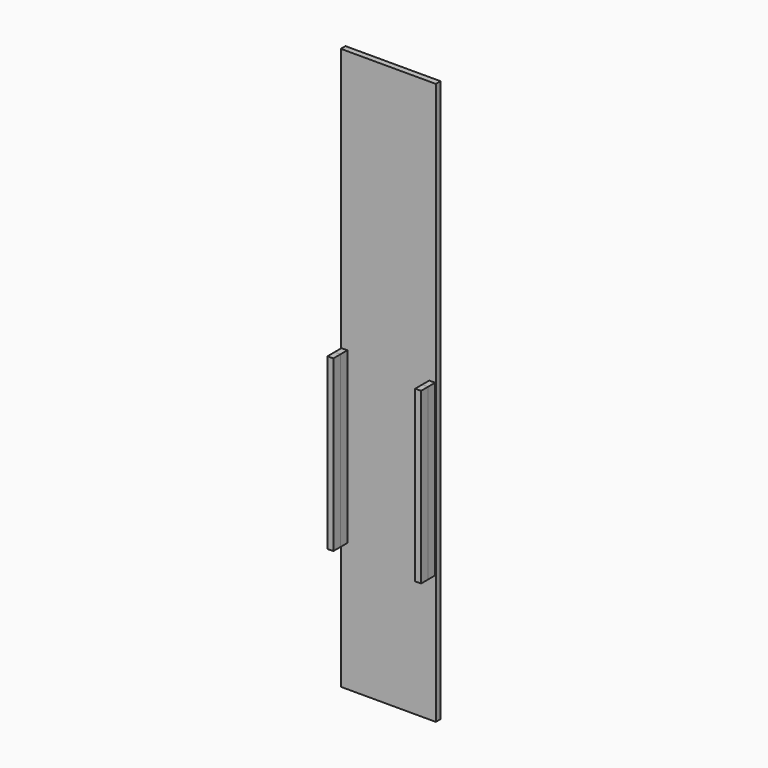
from build123d import *

# Parameters (mm, degrees)
F0_W      = 412.75
F0_H      = 2438.4
F1_DEPTH  = 25.4
F3_DEPTH  = 76.2
F4_W      = 406.4
F4_H      = 584.2
F5_DEPTH  = 38.1
F7_W      = 25.4
F7_H      = 736.6
F8_DEPTH  = 38.1
F9_W      = 25.4
F9_H      = 736.6
F10_DEPTH = 38.1


with BuildPart() as f1:
    # F0 (on Front) → F1 (new body)
    with BuildSketch(Plane.XZ):
        with Locations((206.375, 1219.2)):
            Rectangle(F0_W, F0_H)
    extrude(amount=F1_DEPTH)


with BuildPart() as f3:
    # F2 (on face) → F3 (new body)
    with BuildSketch(Plane.XZ.offset(25.4)):
        Polygon((409.575, 863.6), (3.175, 863.6), (3.175, 127), (28.575, 127), (28.575, 800.1), (384.175, 800.1), (384.175, 127), (409.575, 127), align=None)
    extrude(amount=F3_DEPTH)


with BuildPart() as f5:
    # F4 (on face) → F5 (new body)
    with BuildSketch(Plane.XZ.offset(25.4)):
        with Locations((206.375, 1003.3)):
            Rectangle(F4_W, F4_H)
    extrude(amount=F5_DEPTH)


with BuildPart() as f8:
    # F7 (on face) → F8 (new body)
    with BuildSketch(Plane.XZ.offset(63.5)):
        with Locations((15.875, 927.1)):
            Rectangle(F7_W, F7_H)
        with Locations((396.875, 927.1)):
            Rectangle(F7_W, F7_H)
    extrude(amount=F8_DEPTH)


with BuildPart() as f10:
    # F9 (on face) → F10 (new body)
    with BuildSketch(Plane(origin=(0, -63.5, 0), x_dir=(-1, 0, 0), z_dir=(0, 1, 0))):
        with Locations((-15.875, 927.1)):
            Rectangle(F9_W, F9_H)
        with Locations((-396.875, 927.1)):
            Rectangle(F9_W, F9_H)
    extrude(amount=F10_DEPTH)


solid = Compound([f1.part, f8.part, f10.part])
